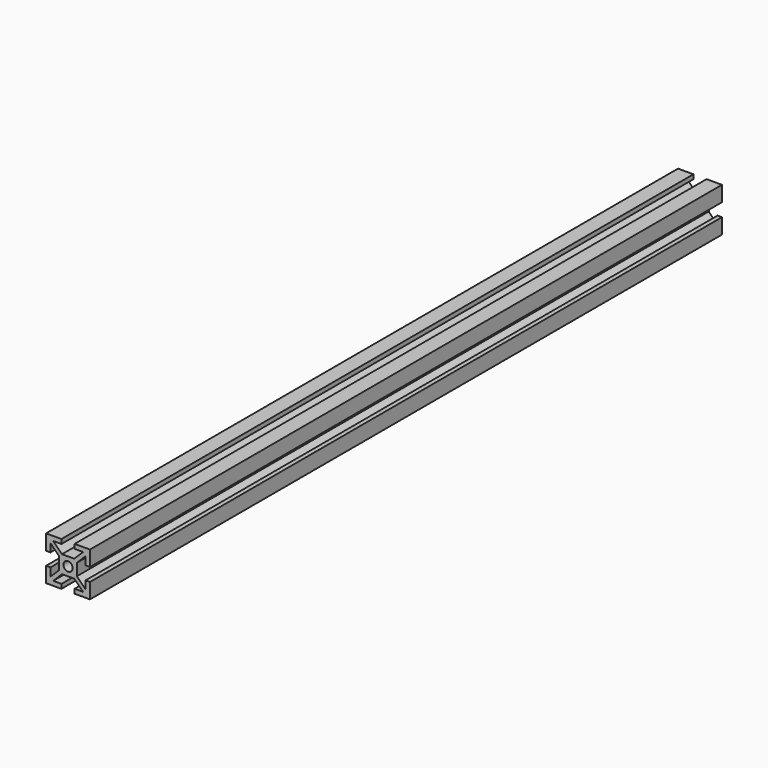
from build123d import *

# Parameters (mm, degrees)
F0_R     = 2.1
F1_DEPTH = 360


with BuildPart() as f1:
    # F0 (on Front) → F1 (new body)
    with BuildSketch(Plane.XZ):
        Polygon((3.043448, -9.963036), (10.043448, -9.963036), (10.043448, -2.963036), (8.043448, -2.963036), (8.043448, -6.628225), (4.043448, -2.628225), (4.043448, 2.783328), (8.043448, 6.783328), (8.043448, 3.036964), (10.043448, 3.036964), (10.043448, 10.036964), (3.043448, 10.036964), (3.043448, 8.036964), (6.911917, 8.036964), (2.906782, 4.036964), (-2.706552, 4.036964), (-6.706552, 8.036964), (-2.956552, 8.036964), (-2.956552, 10.036964), (-9.956552, 10.036964), (-9.956552, 3.036964), (-7.956552, 3.036964), (-7.956552, 6.786964), (-3.956552, 2.786964), (-3.956552, -2.713036), (-7.956552, -6.713036), (-7.956552, -2.963036), (-9.956552, -2.963036), (-9.956552, -9.963036), (-2.956552, -9.963036), (-2.956552, -7.963036), (-6.706552, -7.963036), (-2.706552, -3.963036), (2.911917, -3.963036), (6.911917, -7.963036), (3.043448, -7.963036), align=None)
        with Locations((0.043448, 0.036964)):
            Circle(F0_R, mode=Mode.SUBTRACT)
    extrude(amount=F1_DEPTH)


solid = f1.part
